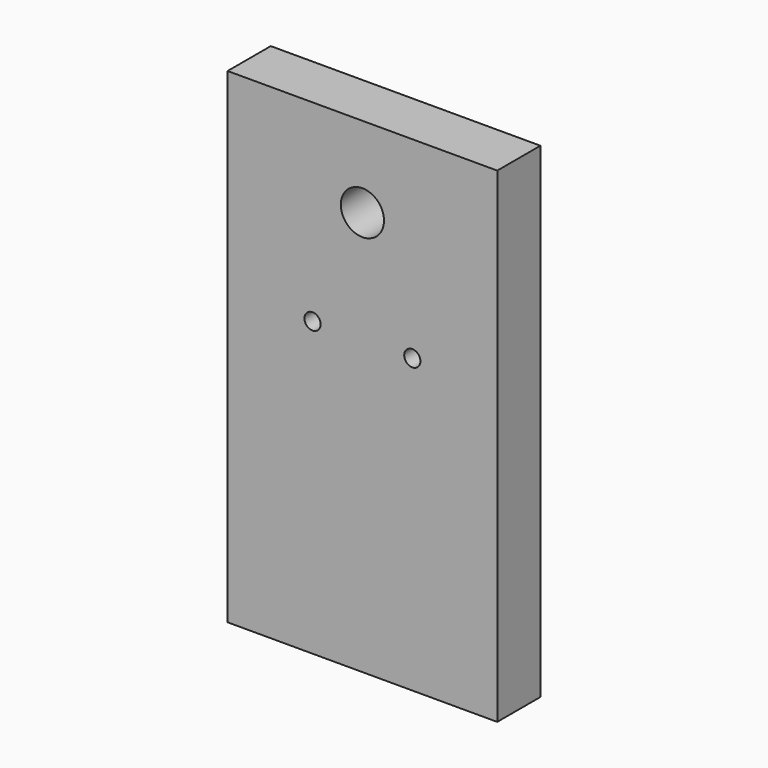
from build123d import *

# Parameters (mm, degrees)
F0_W     = 50
F0_H     = 90
F1_DEPTH = 10
F2_R     = 4
F2_R_2   = 1.5
F3_DEPTH = 25


with BuildPart() as f1:
    # F0 (on Front) → F1 (new body)
    with BuildSketch(Plane.XZ):
        Rectangle(F0_W, F0_H)
    extrude(amount=F1_DEPTH)

    # F2 (on face) → F3 (cut)
    with BuildSketch(Plane.XZ.offset(10)):
        with Locations((0, 30)):
            Circle(F2_R)
        with Locations((9.25, 9.25)):
            Circle(F2_R_2)
        with Locations((-9.25, 9.25)):
            Circle(F2_R_2)
    extrude(amount=-F3_DEPTH, mode=Mode.SUBTRACT)


solid = f1.part
